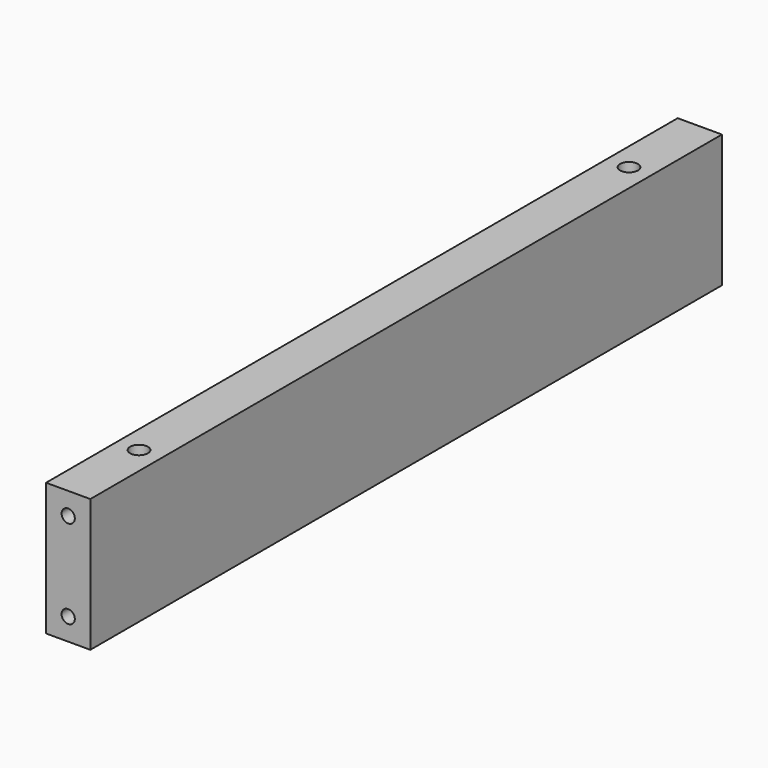
from build123d import *

# Parameters (mm, degrees)
F0_W     = 12.7
F0_H     = 38.1
F1_DEPTH = 226.6
F3_D     = 3.7973
F3_DEPTH = 15.875
F3_TIP   = 1.1408240143
F5_D     = 3.7973
F5_DEPTH = 15.875
F5_TIP   = 1.1408240143
F7_D     = 5.1054


with BuildPart() as f1:
    # F0 (on Front) → F1 (new body)
    with BuildSketch(Plane.XZ):
        with Locations((6.35, 19.05)):
            Rectangle(F0_W, F0_H)
    extrude(amount=F1_DEPTH)

    # F3
    with Locations(Plane.XZ.offset(226.6)):
        with Locations((6.35, 31.75), (6.35, 6.35)):
            Hole(F3_D / 2, depth=F3_DEPTH)
            with Locations((0, 0, -(F3_DEPTH + F3_TIP / 2))):  # 118° drill point
                Cone(0, F3_D / 2, F3_TIP, mode=Mode.SUBTRACT)

    # F5
    with Locations(Plane(origin=(0, 0, 0), x_dir=(-1, 0, 0), z_dir=(0, 1, 0))):
        with Locations((-6.35, 31.75), (-6.35, 6.35)):
            Hole(F5_D / 2, depth=F5_DEPTH)
            with Locations((0, 0, -(F5_DEPTH + F5_TIP / 2))):  # 118° drill point
                Cone(0, F5_D / 2, F5_TIP, mode=Mode.SUBTRACT)

    # F7 (through all)
    with Locations(Plane(origin=(0, 0, 0), x_dir=(1, 0, 0), z_dir=(0, 0, -1))):
        with Locations((6.35, 25.4), (6.35, 201.2)):
            Hole(F7_D / 2)


solid = f1.part
